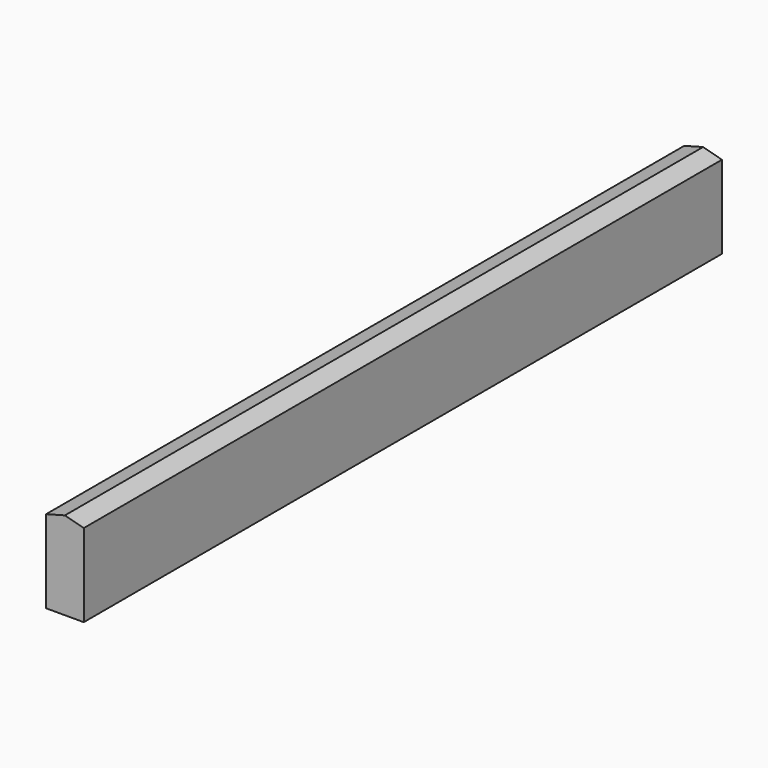
from build123d import *

# Parameters (mm, degrees)
F1_DEPTH = 602.9706
F2_DEPTH = 699.135
F3_DEPTH = 770.8138
F4_DEPTH = 806.6024


with BuildPart() as f1:
    # F0 (on Front) → F1 (new body)
    with BuildSketch(Plane.XZ):
        Polygon((19.05, -5.104432), (0, 0), (-19.05, -5.104432), (-19.05, -88.9), (19.05, -88.9), align=None)
    extrude(amount=F1_DEPTH)


with BuildPart() as f2:
    # F0 (on Front) → F2 (new body)
    with BuildSketch(Plane.XZ):
        Polygon((19.05, -5.104432), (0, 0), (-19.05, -5.104432), (-19.05, -88.9), (19.05, -88.9), align=None)
    extrude(amount=F2_DEPTH)


with BuildPart() as f3:
    # F0 (on Front) → F3 (new body)
    with BuildSketch(Plane.XZ):
        Polygon((19.05, -5.104432), (0, 0), (-19.05, -5.104432), (-19.05, -88.9), (19.05, -88.9), align=None)
    extrude(amount=F3_DEPTH)


with BuildPart() as f4:
    # F0 (on Front) → F4 (new body)
    with BuildSketch(Plane.XZ):
        Polygon((19.05, -5.104432), (0, 0), (-19.05, -5.104432), (-19.05, -88.9), (19.05, -88.9), align=None)
    extrude(amount=F4_DEPTH)


solid = Compound([f1.part, f2.part, f3.part, f4.part])
